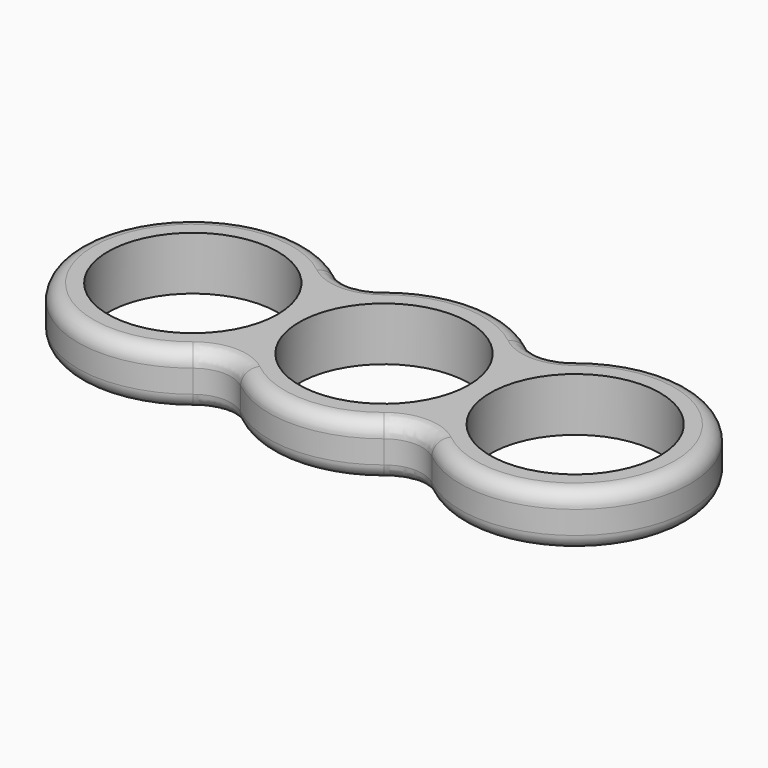
from build123d import *

# Parameters (mm, degrees)
F0_R     = 11.1
F1_DEPTH = 7
F2_R     = 5
F3_R     = 2


with BuildPart() as f1:
    # F0 (on Top) → F1 (new body)
    with BuildSketch(Plane.XY):
        with BuildLine():
            ThreePointArc((12.5, 8.291562), (0, 15), (-12.5, 8.291562))
            ThreePointArc((-12.5, 8.291562), (-40, 0), (-12.5, -8.291562))
            ThreePointArc((-12.5, -8.291562), (0, -15), (12.5, -8.291562))
            ThreePointArc((12.5, -8.291562), (40, 0), (12.5, 8.291562))
        make_face()
        with Locations((-25, 0)):
            Circle(F0_R, mode=Mode.SUBTRACT)
        Circle(F0_R, mode=Mode.SUBTRACT)
        with Locations((25, 0)):
            Circle(F0_R, mode=Mode.SUBTRACT)
    extrude(amount=F1_DEPTH)

    # F2
    f2_edges = [f1.edges().sort_by_distance(p)[0] for p in [
        (-12.5, -8.291562, 3.5),
        (12.5, -8.291562, 3.5),
        (12.5, 8.291562, 3.5),
        (-12.5, 8.291562, 3.5),
    ]]
    fillet(f2_edges, radius=F2_R)

    # F3
    f3_edges = [f1.edges().sort_by_distance(p)[0] for p in [
        (-40, 0, 7),
        (-40, 0, 0),
    ]]
    fillet(f3_edges, radius=F3_R)


solid = f1.part
